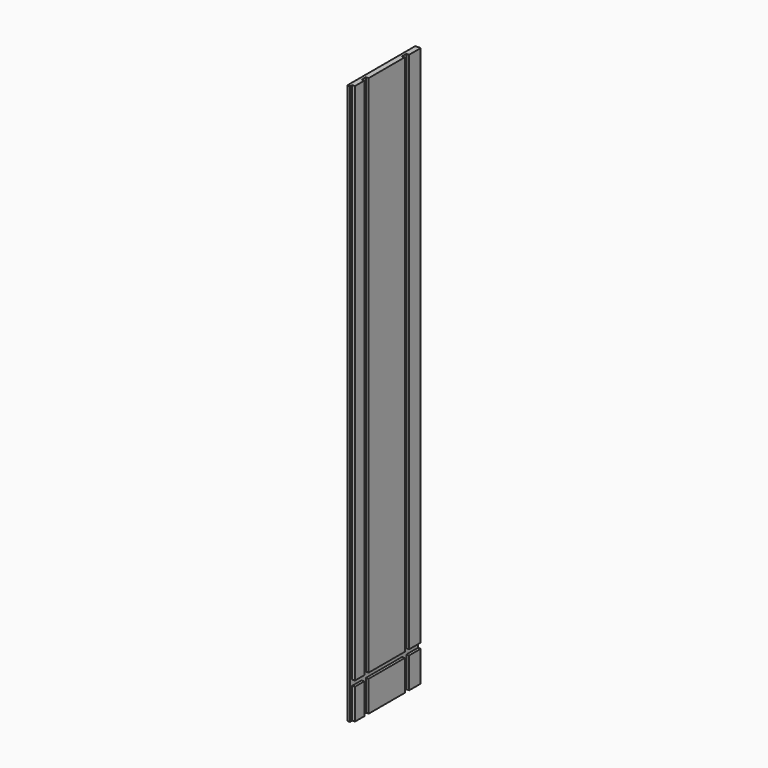
from build123d import *

# Parameters (mm, degrees)
F0_W     = 298.45
F0_H     = 1965.325
F1_DEPTH = 19.05
F2_W     = 298.45
F2_H     = 19.05
F3_DEPTH = 9.525
F4_W     = 19.05
F4_H     = 1965.325
F5_DEPTH = 9.525
F6_W     = 9.525
F6_H     = 9.525
F7_DEPTH = 1965.326


with BuildPart() as f1:
    # F0 (on Right) → F1 (new body)
    with BuildSketch(Plane.YZ):
        Rectangle(F0_W, F0_H)
    extrude(amount=F1_DEPTH)

    # F2 (on face) → F3 (cut)
    with BuildSketch(Plane.YZ.offset(19.05)):
        with Locations((0, -865.1875)):
            Rectangle(F2_W, F2_H)
    extrude(amount=-F3_DEPTH, mode=Mode.SUBTRACT)

    # F4 (on face) → F5 (cut)
    with BuildSketch(Plane.YZ.offset(19.05)):
        with Locations((-88.9, 0)):
            Rectangle(F4_W, F4_H)
        with Locations((88.9, 0)):
            Rectangle(F4_W, F4_H)
    extrude(amount=-F5_DEPTH, mode=Mode.SUBTRACT)

    # F6 (on face) → F7 (cut, through all)
    with BuildSketch(Plane(origin=(0, 0, -982.6625), x_dir=(1, 0, 0), z_dir=(0, 0, -1))):
        with Locations((14.2875, 144.4625)):
            Rectangle(F6_W, F6_H)
    extrude(amount=-F7_DEPTH, mode=Mode.SUBTRACT)


solid = f1.part
